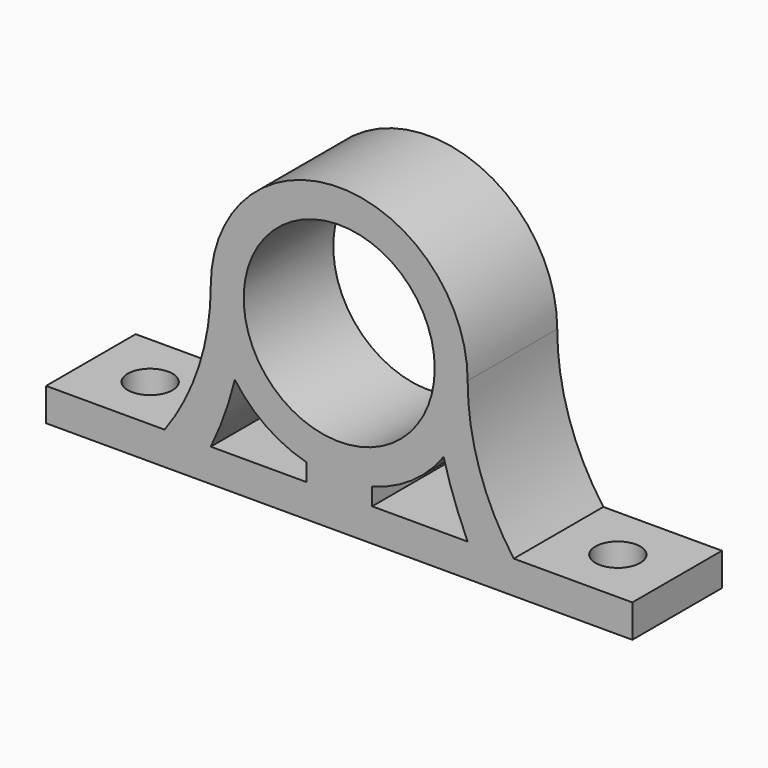
from build123d import *

# Parameters (mm, degrees)
F0_R     = 14.5
F1_DEPTH = 17
F2_R     = 3.4
F3_DEPTH = 46.001


with BuildPart() as f1:
    # F0 (on Front) → F1 (new body)
    with BuildSketch(Plane.XZ):
        with BuildLine():
            Line((-44.5, -21.5), (-44.5, -26.5))
            Line((-44.5, -26.5), (44.5, -26.5))
            Line((44.5, -26.5), (44.5, -21.5))
            Line((44.5, -21.5), (26.5, -21.5))
            ThreePointArc((26.5, -21.5), (21.29407, -11.305419), (19.5, 0))
            ThreePointArc((19.5, 0), (0, 19.5), (-19.5, 0))
            ThreePointArc((-19.5, 0), (-21.29407, -11.305419), (-26.5, -21.5))
            Line((-26.5, -21.5), (-44.5, -21.5))
        make_face()
        with BuildLine():
            ThreePointArc((-19.5, -21.5), (-17.407209, -16.529013), (-15.844405, -11.36683))
            ThreePointArc((-15.844405, -11.36683), (-11.073146, -16.051026), (-5, -18.848077))
            ThreePointArc((-5, -18.848077), (0, -19.5), (5, -18.848077))
            ThreePointArc((5, -18.848077), (11.073146, -16.051026), (15.844405, -11.36683))
            ThreePointArc((15.844405, -11.36683), (17.451983, -16.51286), (19.5, -21.5))
            Line((19.5, -21.5), (5, -21.5))
            Line((5, -21.5), (-5, -21.5))
            Line((-5, -21.5), (-19.5, -21.5))
        make_face(mode=Mode.SUBTRACT)
        Circle(F0_R, mode=Mode.SUBTRACT)
        with BuildLine():
            ThreePointArc((5, -18.848077), (0, -19.5), (-5, -18.848077))
            Line((-5, -18.848077), (-5, -21.5))
            Line((-5, -21.5), (5, -21.5))
            Line((5, -21.5), (5, -18.848077))
        make_face()
    extrude(amount=F1_DEPTH)

    # F2 (on face) → F3 (cut, through all)
    with BuildSketch(Plane(origin=(0, 0, -26.5), x_dir=(1, 0, 0), z_dir=(0, 0, -1))):
        with Locations((-35.5, 8.5)):
            Circle(F2_R)
        with Locations((35.5, 8.5)):
            Circle(F2_R)
    extrude(amount=-F3_DEPTH, mode=Mode.SUBTRACT)


solid = f1.part
